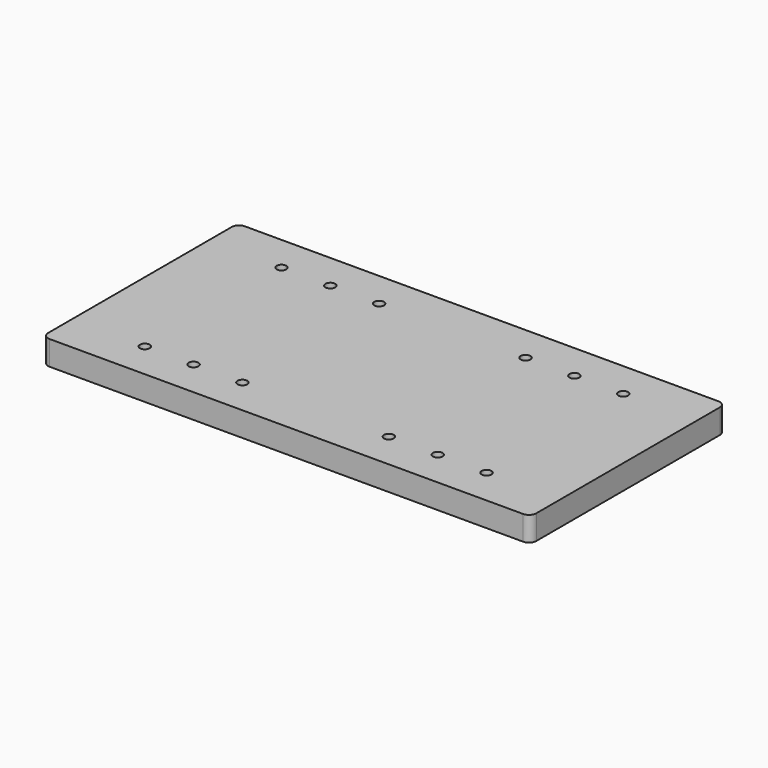
from build123d import *

# Parameters (mm, degrees)
SKETCH_W  = 200
SKETCH_H  = 100
SKETCH_R  = 2
PAD_DEPTH = 10
FILLET_R  = 3


with BuildPart() as part:
    # Sketch → Pad (new body)
    with BuildSketch(Plane.XY):
        with Locations((100, 50)):
            Rectangle(SKETCH_W, SKETCH_H)
        with Locations((30, 85)):
            Circle(SKETCH_R, mode=Mode.SUBTRACT)
        with Locations((30, 15)):
            Circle(SKETCH_R, mode=Mode.SUBTRACT)
        with Locations((170, 85)):
            Circle(SKETCH_R, mode=Mode.SUBTRACT)
        with Locations((170, 15)):
            Circle(SKETCH_R, mode=Mode.SUBTRACT)
        with Locations((50, 85)):
            Circle(SKETCH_R, mode=Mode.SUBTRACT)
        with Locations((50, 15)):
            Circle(SKETCH_R, mode=Mode.SUBTRACT)
        with Locations((150, 85)):
            Circle(SKETCH_R, mode=Mode.SUBTRACT)
        with Locations((150, 15)):
            Circle(SKETCH_R, mode=Mode.SUBTRACT)
        with Locations((70, 85)):
            Circle(SKETCH_R, mode=Mode.SUBTRACT)
        with Locations((70, 15)):
            Circle(SKETCH_R, mode=Mode.SUBTRACT)
        with Locations((130, 15)):
            Circle(SKETCH_R, mode=Mode.SUBTRACT)
        with Locations((130, 85)):
            Circle(SKETCH_R, mode=Mode.SUBTRACT)
    extrude(amount=PAD_DEPTH)

    # Fillet
    fillet_edges = [part.edges().sort_by_distance(p)[0] for p in [
        (200, 0, 5),
        (0, 0, 5),
        (200, 100, 5),
        (0, 100, 5),
    ]]
    fillet(fillet_edges, radius=FILLET_R)


solid = part.part
